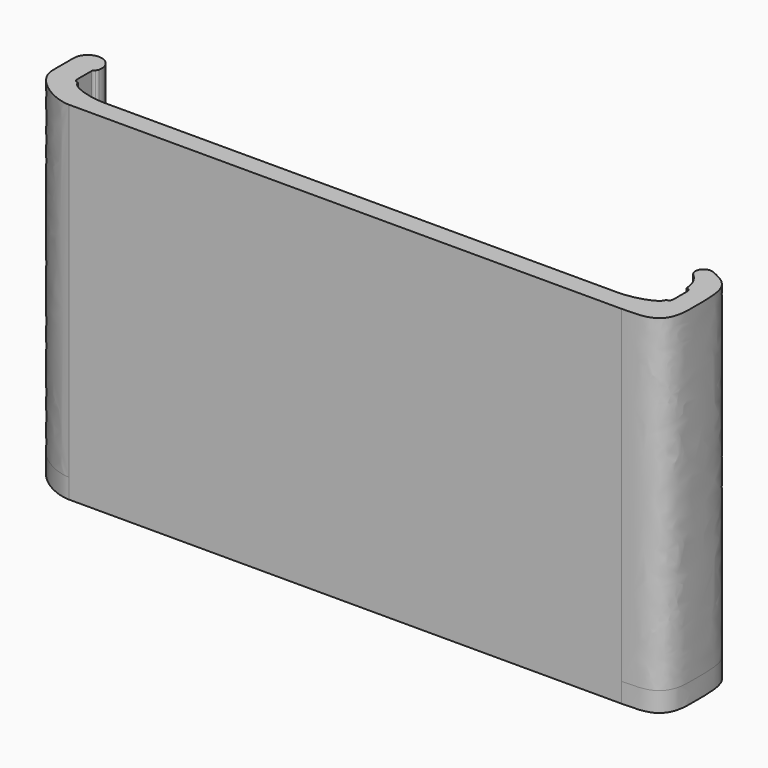
from build123d import *

# Parameters (mm, degrees)
F1_DEPTH = 40
F3_DEPTH = 2.4


with BuildPart() as f1:
    # F0 (on Top) → F1 (new body)
    with BuildSketch(Plane.XY):
        with BuildLine():
            ThreePointArc((34.6805283143, 4.0711313798), (35.5261361368, 2.9425434461), (35.85, 1.57))
            ThreePointArc((35.85, 1.57), (36.2035533906, 1.4235533906), (36.35, 1.07))
            Line((36.35, 1.07), (36.35, -1.07))
            ThreePointArc((36.35, -1.07), (36.2035533906, -1.4235533906), (35.85, -1.57))
            add(Edge.make_bspline(
                [(31.35, -3.25), (33.1933200359, -3.25), (35.85, -2.4136148859), (35.85, -1.57)],
                knots=[0, 0, 0, 0, 4.8033738143, 4.8033738143, 4.8033738143, 4.8033738143], degree=3))
            Line((31.35, -3.25), (0, -3.25))
            Line((0, -3.25), (-31.35, -3.25))
            add(Edge.make_bspline(
                [(-31.35, -3.25), (-33.1933200359, -3.25), (-35.85, -2.4136148859), (-35.85, -1.57)],
                knots=[0, 0, 0, 0, 4.8033738143, 4.8033738143, 4.8033738143, 4.8033738143], degree=3))
            ThreePointArc((-35.85, -1.57), (-36.2035533906, -1.4235533906), (-36.35, -1.07))
            Line((-36.35, -1.07), (-36.35, 1.07))
            ThreePointArc((-36.35, 1.07), (-36.2974040645, 1.2932254534), (-36.1506815878, 1.4694879007))
            ThreePointArc((-36.1506815878, 1.4694879007), (-36.0242452741, 1.6063878618), (-35.9541078089, 1.7790391773))
            ThreePointArc((-35.9541078089, 1.7790391773), (-37.4575031733, 3.8369898413), (-39.35, 2.13))
            Line((-39.35, 2.13), (-39.35, -1.07))
            add(Edge.make_bspline(
                [(-39.35, -1.07), (-39.35, -3.4442195383), (-35.7546880841, -5.65), (-33.7114447915, -5.65)],
                knots=[0, 0, 0, 0, 7.2642759336, 7.2642759336, 7.2642759336, 7.2642759336], degree=3))
            Line((-33.7114447915, -5.65), (0, -5.65))
            Line((0, -5.65), (33.7114447915, -5.65))
            add(Edge.make_bspline(
                [(33.7114447915, -5.65), (36.620455586, -5.65), (38.85, -5.65), (38.85, -1.5545354719)],
                knots=[0, 0, 0, 0, 6.5709648706, 6.5709648706, 6.5709648706, 6.5709648706], degree=3))
            add(Edge.make_bspline(
                [(35.7131027803, 5.749933702), (38.85, 4.4943462177), (38.85, 3.3085177258), (38.85, -1.5545354719)],
                knots=[0, 0, 0, 0, 7.9495530743, 7.9495530743, 7.9495530743, 7.9495530743], degree=3))
            ThreePointArc((35.7131027803, 5.749933702), (34.4897213323, 5.3454422511), (34.6805283143, 4.0711313798))
        make_face()
    extrude(amount=F1_DEPTH)

    # F2 (on face) + F0 (on Top) → F3 (join)
    with BuildSketch(Plane(origin=(0, 0, 0), x_dir=(1, 0, 0), z_dir=(0, 0, -1))):
        with BuildLine():
            Line((34.9253274443, -6.217963939), (36.6337435652, -5.3356373505))
            add(Edge.make_bspline(
                [(35.7131027803, -5.749933702), (36.0561257002, -5.6126339262), (36.3616387129, -5.4761683037), (36.6337435652, -5.3356373505)],
                knots=[0, 0, 0, 0, 0.109351023, 0.109351023, 0.109351023, 0.109351023], degree=3))
            ThreePointArc((35.7131027803, -5.749933702), (34.4897213323, -5.3454422511), (34.6805283143, -4.0711313798))
            ThreePointArc((34.6805283143, -4.0711313798), (35.5261361368, -2.9425434461), (35.85, -1.57))
            ThreePointArc((35.85, -1.57), (36.2035533906, -1.4235533906), (36.35, -1.07))
            Line((36.35, -1.07), (36.35, 1.07))
            ThreePointArc((36.35, 1.07), (36.2035533906, 1.4235533906), (35.85, 1.57))
            add(Edge.make_bspline(
                [(31.35, 3.25), (33.1933200359, 3.25), (35.85, 2.4136148859), (35.85, 1.57)],
                knots=[0, 0, 0, 0, 4.8033738143, 4.8033738143, 4.8033738143, 4.8033738143], degree=3))
            Line((31.35, 3.25), (-31.35, 3.25))
            add(Edge.make_bspline(
                [(-31.35, 3.25), (-33.1933200359, 3.25), (-35.85, 2.4136148859), (-35.85, 1.57)],
                knots=[0, 0, 0, 0, 4.8033738143, 4.8033738143, 4.8033738143, 4.8033738143], degree=3))
            ThreePointArc((-35.85, 1.57), (-36.2035533906, 1.4235533906), (-36.35, 1.07))
            Line((-36.35, 1.07), (-36.35, -1.07))
            ThreePointArc((-36.35, -1.07), (-36.2974040645, -1.2932254534), (-36.1506815878, -1.4694879007))
            ThreePointArc((-36.1506815878, -1.4694879007), (-36.0242452741, -1.6063878618), (-35.9541078089, -1.7790391773))
            ThreePointArc((-35.9541078089, -1.7790391773), (-36.9875394853, -3.7196952841), (-39.0820049076, -3.0508591686))
            Line((-39.0820049076, -3.0508591686), (-38.1270352945, -4.5525858262))
            ThreePointArc((-38.1270352945, -4.5525858262), (-35.9521323906, -6.5921250213), (-33.06403643, -7.3329519188))
            Line((-33.06403643, -7.3329519188), (30.3365845444, -7.3329519188))
            ThreePointArc((30.3365845444, -7.3329519188), (32.6977156079, -7.0502077095), (34.9253274443, -6.217963939))
        make_face()
    with BuildSketch(Plane.XY):
        with BuildLine():
            ThreePointArc((34.6805283143, 4.0711313798), (35.5261361368, 2.9425434461), (35.85, 1.57))
            ThreePointArc((35.85, 1.57), (36.2035533906, 1.4235533906), (36.35, 1.07))
            Line((36.35, 1.07), (36.35, -1.07))
            ThreePointArc((36.35, -1.07), (36.2035533906, -1.4235533906), (35.85, -1.57))
            add(Edge.make_bspline(
                [(31.35, -3.25), (33.1933200359, -3.25), (35.85, -2.4136148859), (35.85, -1.57)],
                knots=[0, 0, 0, 0, 4.8033738143, 4.8033738143, 4.8033738143, 4.8033738143], degree=3))
            Line((31.35, -3.25), (0, -3.25))
            Line((0, -3.25), (-31.35, -3.25))
            add(Edge.make_bspline(
                [(-31.35, -3.25), (-33.1933200359, -3.25), (-35.85, -2.4136148859), (-35.85, -1.57)],
                knots=[0, 0, 0, 0, 4.8033738143, 4.8033738143, 4.8033738143, 4.8033738143], degree=3))
            ThreePointArc((-35.85, -1.57), (-36.2035533906, -1.4235533906), (-36.35, -1.07))
            Line((-36.35, -1.07), (-36.35, 1.07))
            ThreePointArc((-36.35, 1.07), (-36.2974040645, 1.2932254534), (-36.1506815878, 1.4694879007))
            ThreePointArc((-36.1506815878, 1.4694879007), (-36.0242452741, 1.6063878618), (-35.9541078089, 1.7790391773))
            ThreePointArc((-35.9541078089, 1.7790391773), (-37.4575031733, 3.8369898413), (-39.35, 2.13))
            Line((-39.35, 2.13), (-39.35, -1.07))
            add(Edge.make_bspline(
                [(-39.35, -1.07), (-39.35, -3.4442195383), (-35.7546880841, -5.65), (-33.7114447915, -5.65)],
                knots=[0, 0, 0, 0, 7.2642759336, 7.2642759336, 7.2642759336, 7.2642759336], degree=3))
            Line((-33.7114447915, -5.65), (0, -5.65))
            Line((0, -5.65), (33.7114447915, -5.65))
            add(Edge.make_bspline(
                [(33.7114447915, -5.65), (36.620455586, -5.65), (38.85, -5.65), (38.85, -1.5545354719)],
                knots=[0, 0, 0, 0, 6.5709648706, 6.5709648706, 6.5709648706, 6.5709648706], degree=3))
            add(Edge.make_bspline(
                [(35.7131027803, 5.749933702), (38.85, 4.4943462177), (38.85, 3.3085177258), (38.85, -1.5545354719)],
                knots=[0, 0, 0, 0, 7.9495530743, 7.9495530743, 7.9495530743, 7.9495530743], degree=3))
            ThreePointArc((35.7131027803, 5.749933702), (34.4897213323, 5.3454422511), (34.6805283143, 4.0711313798))
        make_face()
    extrude(amount=F3_DEPTH, dir=(0, 0, -1))


solid = f1.part
